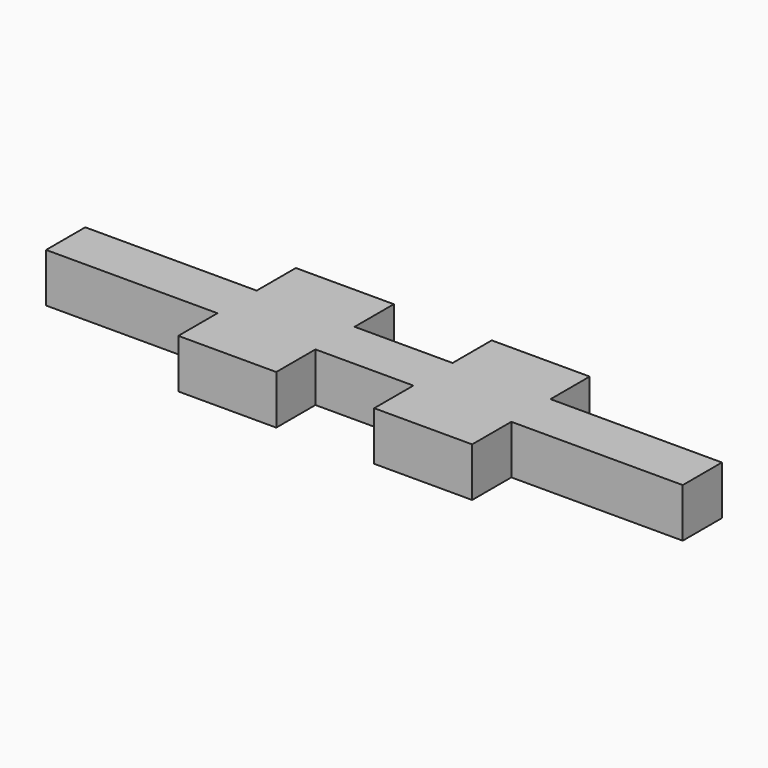
from build123d import *

# Parameters (mm, degrees)
F1_DEPTH = 6.35


with BuildPart() as f1:
    # F0 (on Top) → F1 (new body)
    with BuildSketch(Plane.XY):
        Polygon((34.925, 0), (22.225, 0), (22.225, -6.35), (0, -6.35), (0, -12.7), (22.225, -12.7), (22.225, -19.05), (34.925, -19.05), (34.925, -12.7), (47.625, -12.7), (47.625, -19.05), (60.325, -19.05), (60.325, -12.7), (82.55, -12.7), (82.55, -6.35), (60.325, -6.35), (60.325, 0), (47.625, 0), (47.625, -6.35), (34.925, -6.35), align=None)
    extrude(amount=F1_DEPTH)


solid = f1.part
